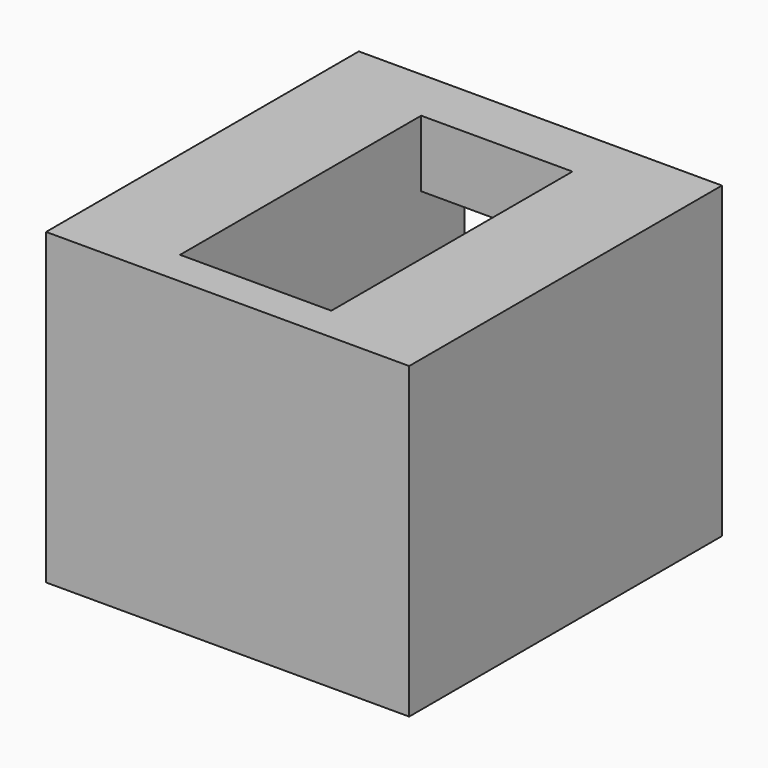
from build123d import *

# Parameters (mm, degrees)
F1_W     = 30
F1_H     = 32.3
F2_DEPTH = 5.5
F0_W     = 12.5
F0_H     = 22.9
F3_DEPTH = 7
F4_W     = 8.75
F4_H     = 4.9
F4_W_2   = 12.5
F4_H_2   = 22.9
F4_H_3   = 4.5
F5_DEPTH = 20
F6_SIZE  = 2
F7_SIZE  = 2


with BuildPart() as f2:
    # F1 (on Top) → F2 (new body)
    with BuildSketch(Plane.XY):
        with Locations((6.25, 11.25)):
            Rectangle(F1_W, F1_H)
    extrude(amount=F2_DEPTH)

    # F0 (on Top) → F3 (cut)
    with BuildSketch(Plane.XY):
        with Locations((6.25, 11.45)):
            Rectangle(F0_W, F0_H)
    extrude(amount=F3_DEPTH, mode=Mode.SUBTRACT)

    # F4 (on Top) → F5 (join)
    with BuildSketch(Plane.XY):
        with Locations((-4.375, -2.45)):
            Rectangle(F4_W, F4_H)
        with Locations((6.25, -2.45)):
            Rectangle(F4_W_2, F4_H)
        with Locations((-4.375, 11.45)):
            Rectangle(F4_W, F4_H_2)
        with Locations((-4.375, 25.15)):
            Rectangle(F4_W, F4_H_3)
        with Locations((16.875, 11.45)):
            Rectangle(F4_W, F4_H_2)
        with Locations((16.875, -2.45)):
            Rectangle(F4_W, F4_H)
        with Locations((16.875, 25.15)):
            Rectangle(F4_W, F4_H_3)
    extrude(amount=-F5_DEPTH)

    # F6
    f6_edges = [f2.edges().sort_by_distance(p)[0] for p in [
        (6.25, 0, 5.5),
    ]]
    chamfer(f6_edges, length=F6_SIZE)

    # F7
    f7_edges = [f2.edges().sort_by_distance(p)[0] for p in [
        (6.25, 0, 3.5),
    ]]
    chamfer(f7_edges, length=F7_SIZE)


solid = f2.part
